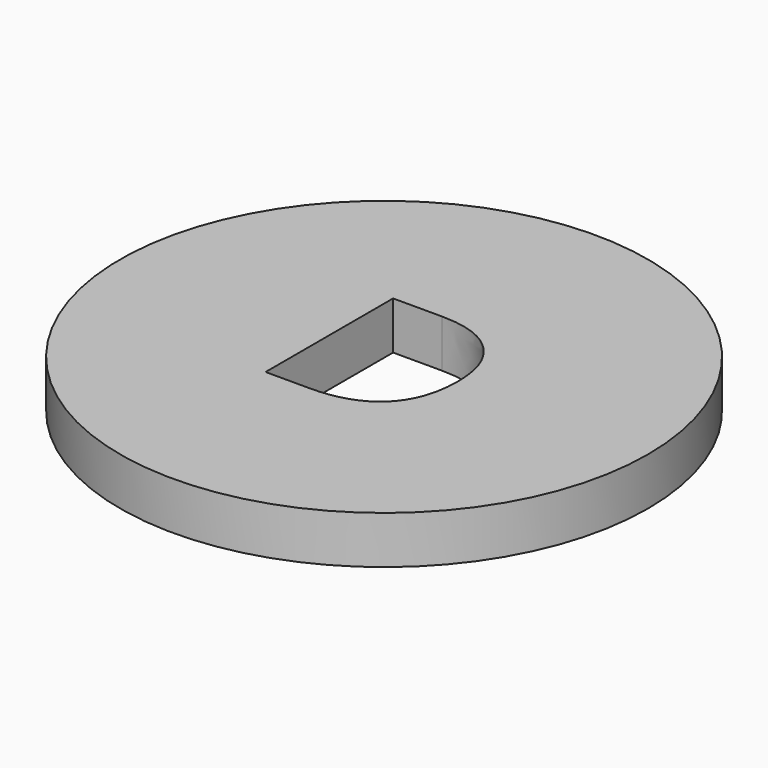
from build123d import *

# Parameters (mm, degrees)
F0_R     = 70.2873517209
F1_DEPTH = 12.7


with BuildPart() as f1:
    # F0 (on Top) → F1 (new body)
    with BuildSketch(Plane.XY):
        Circle(F0_R)
        with BuildLine():
            add(Edge.make_bspline(
                [(13.4054490256, 16.2461849085), (18.8907583415, 10.7608755926), (18.8907583415, 0.9142576843)],
                knots=[0, 0, 0, 1, 1, 1], degree=2))
            add(Edge.make_bspline(
                [(18.8907583415, 0.9142576843), (18.8907583415, -9.5918978386), (13.1871513644, -15.1515212519)],
                knots=[0, 0, 0, 1, 1, 1], degree=2))
            add(Edge.make_bspline(
                [(13.1871513644, -15.1515212519), (7.4835443874, -20.7111446653), (-3.2269749035, -20.7111446653)],
                knots=[0, 0, 0, 1, 1, 1], degree=2))
            Line((-3.2269749035, -20.7111446653), (-14.9871808203, -20.7111446653))
            Line((-14.9871808203, -20.7111446653), (-14.9871808203, 21.7314942244))
            Line((-14.9871808203, 21.7314942244), (-1.9822137716, 21.7314942244))
            add(Edge.make_bspline(
                [(-1.9822137716, 21.7314942244), (7.9201397097, 21.7314942244), (13.4054490256, 16.2461849085)],
                knots=[0, 0, 0, 1, 1, 1], degree=2))
        make_face(mode=Mode.SUBTRACT)
    extrude(amount=F1_DEPTH)


solid = f1.part
